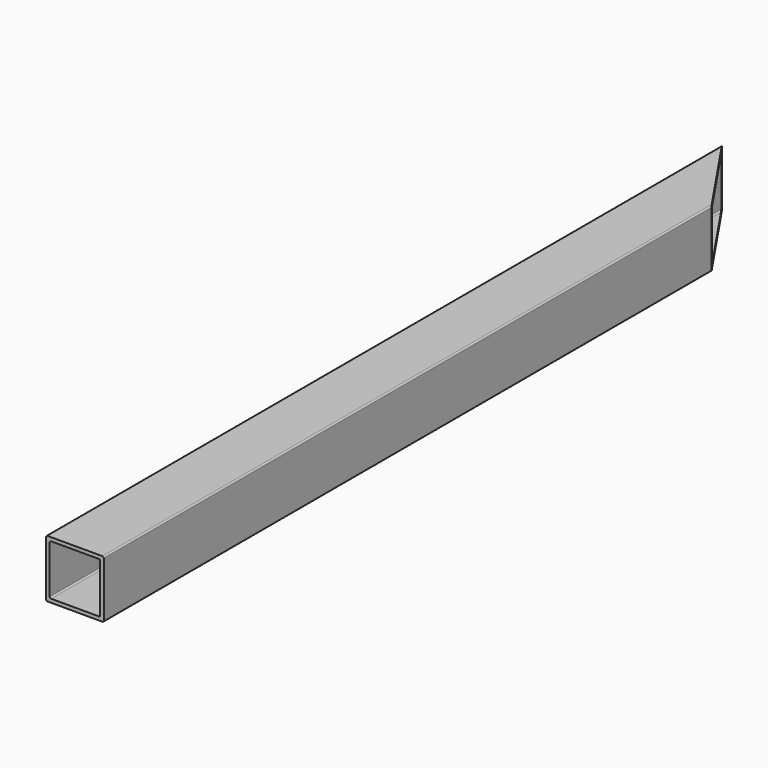
from build123d import *

# Parameters (mm, degrees)
F0_W     = 101.6
F0_H     = 376.3636363636
F1_DEPTH = 50.8
F2_W     = 88.9
F2_H     = 88.9
F3_DEPTH = 1476.9896363636
F4_R     = 2.5


with BuildPart() as f1:
    # F0 (on Top) → F1 (new body, symmetric)
    with BuildSketch(Plane.XY):
        Polygon((-458.4, -75), (-560, 75), (-560, -75), (-560, -658.6363636364), (-458.4, -658.6363636364), align=None)
        Polygon((-560, 301.3636363636), (-560, 75), (-458.4, -75), (-458.4, 301.3636363636), (-560, 451.3636363636), align=None)
        with Locations((-509.2, -846.8181818182)):
            Rectangle(F0_W, F0_H)
    extrude(amount=F1_DEPTH, both=True)

    # F2 (on face) → F3 (cut, through all)
    with BuildSketch(Plane.XZ.offset(1035)):
        with Locations((-509.2, 0)):
            Rectangle(F2_W, F2_H)
    extrude(amount=-F3_DEPTH, mode=Mode.SUBTRACT)

    # F4
    f4_edges = [f1.edges().sort_by_distance(p)[0] for p in [
        (-553.65, -296.505682, -44.45),
        (-464.75, -362.130682, -44.45),
        (-464.75, -362.130682, 44.45),
        (-553.65, -296.505682, 44.45),
        (-458.4, -366.818182, 50.8),
        (-458.4, -366.818182, -50.8),
        (-560, -291.818182, -50.8),
        (-560, -291.818182, 50.8),
    ]]
    fillet(f4_edges, radius=F4_R)


solid = f1.part
